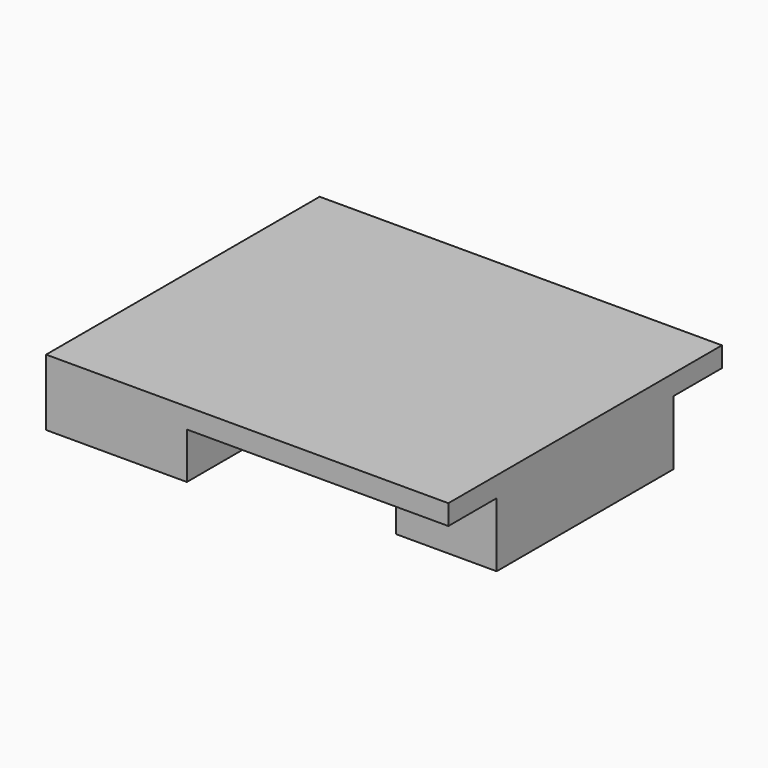
from build123d import *

# Parameters (mm, degrees)
SKETCH_W      = 100
SKETCH_H      = 85
PAD_DEPTH     = 5
SKETCH001_W   = 55
SKETCH001_H   = 28
SKETCH001_W_2 = 25
SKETCH001_H_2 = 55
SKETCH001_W_3 = 20
SKETCH001_H_3 = 20
PAD001_DEPTH  = 16
SKETCH002_W   = 35
SKETCH002_H   = 20
SKETCH002_W_2 = 10
PAD002_DEPTH  = 11.5


with BuildPart() as pad002:
    # Sketch → Pad (new body)
    with BuildSketch(Plane.XY):
        with Locations((50, -42.5)):
            Rectangle(SKETCH_W, SKETCH_H)
    extrude(amount=-PAD_DEPTH)

    # Sketch001 → Pad001 (new body)
    with BuildSketch(Plane.XY):
        with Locations((27.5, -14)):
            Rectangle(SKETCH001_W, SKETCH001_H)
        with BuildLine():
            ThreePointArc((13.492439, -5.458467), (4.492439, -14.458467), (13.492439, -23.458467))
            Line((13.492439, -23.458467), (41.492439, -23.458467))
            ThreePointArc((41.492439, -23.458467), (50.492439, -14.458467), (41.492439, -5.458467))
            Line((13.492439, -5.458467), (41.492439, -5.458467))
        make_face(mode=Mode.SUBTRACT)
        with Locations((87.5, -42.5)):
            Rectangle(SKETCH001_W_2, SKETCH001_H_2)
        with BuildLine():
            ThreePointArc((96.279266, -26.175545), (87.343376, -17.239655), (78.407486, -26.175545))
            Line((78.407486, -26.175545), (78.407486, -58.197685))
            ThreePointArc((78.407486, -58.197685), (87.343376, -67.133575), (96.279266, -58.197685))
            Line((96.279266, -26.175545), (96.279266, -58.197685))
        make_face(mode=Mode.SUBTRACT)
        with Locations((10, -55)):
            Rectangle(SKETCH001_W_3, SKETCH001_H_3)
    extrude(amount=PAD001_DEPTH)

    # Sketch002 → Pad002 (new body)
    with BuildSketch(Plane.XY):
        with Locations((17.5, -75)):
            Rectangle(SKETCH002_W, SKETCH002_H)
        with Locations((31, -38)):
            Rectangle(SKETCH002_W_2, SKETCH002_H)
    extrude(amount=PAD002_DEPTH)


with BuildPart() as part_mirroring:
    # Part__Mirroring: instance of Pad002
    add(pad002.part.mirror(Plane(origin=(0, 0, 0), x_dir=(0, 1, 0), z_dir=(0, 0, 1))))


solid = part_mirroring.part
